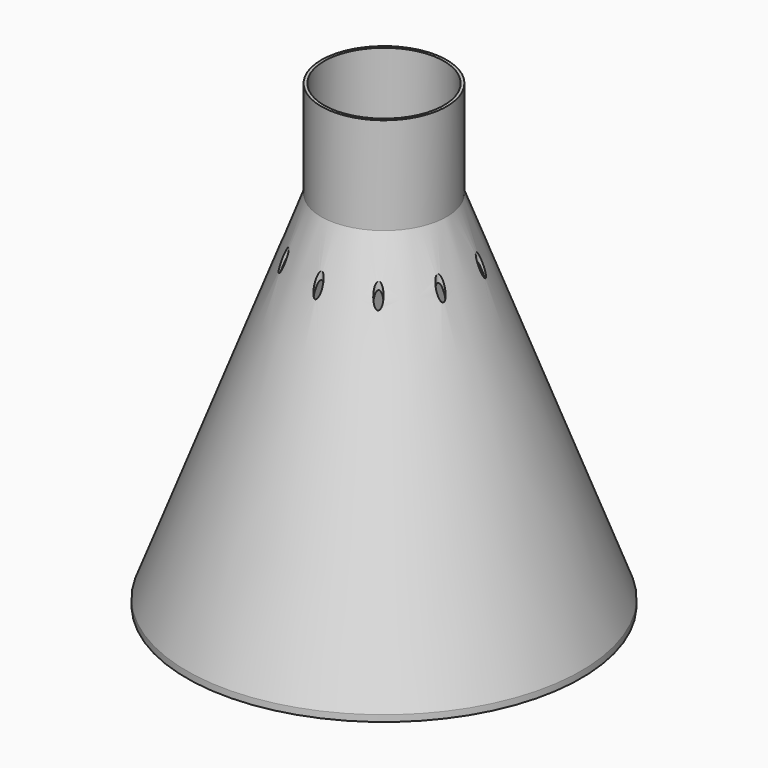
from build123d import *

# Parameters (mm, degrees)
F2_R     = 1.25
F3_DEPTH = 112.001


with BuildPart() as f1:
    # F0 (on Front) → F1 (revolve)
    with BuildSketch(Plane.XZ):
        Polygon((-18.5, 0), (-18.5, 30), (-19.4, 30), (-19.4, 0), (-60.9, -110), (-60.9, -112), (-57.9, -112), (-57.9, -104.433735), align=None)
    revolve(axis=Axis((0, 0, -55), (0, 0, -1)))

    # F2 (on Top) → F3 (cut, through all)
    with BuildSketch(Plane.XY):
        with Locations((0, 25)):
            Circle(F2_R)
        with Locations((14.733826, 20.19689)):
            Circle(F2_R)
        with Locations((23.806197, 7.63315)):
            Circle(F2_R)
        with Locations((23.731066, -7.863619)):
            Circle(F2_R)
        with Locations((14.537302, -20.338802)):
            Circle(F2_R)
        with Locations((-0.242403, -24.998825)):
            Circle(F2_R)
        with Locations((-14.928965, -20.05308)):
            Circle(F2_R)
        with Locations((-23.87909, -7.401963)):
            Circle(F2_R)
        with Locations((-23.653704, 8.093349)):
            Circle(F2_R)
        with Locations((-14.339411, 20.478801)):
            Circle(F2_R)
    extrude(amount=-F3_DEPTH, mode=Mode.SUBTRACT)


solid = f1.part
